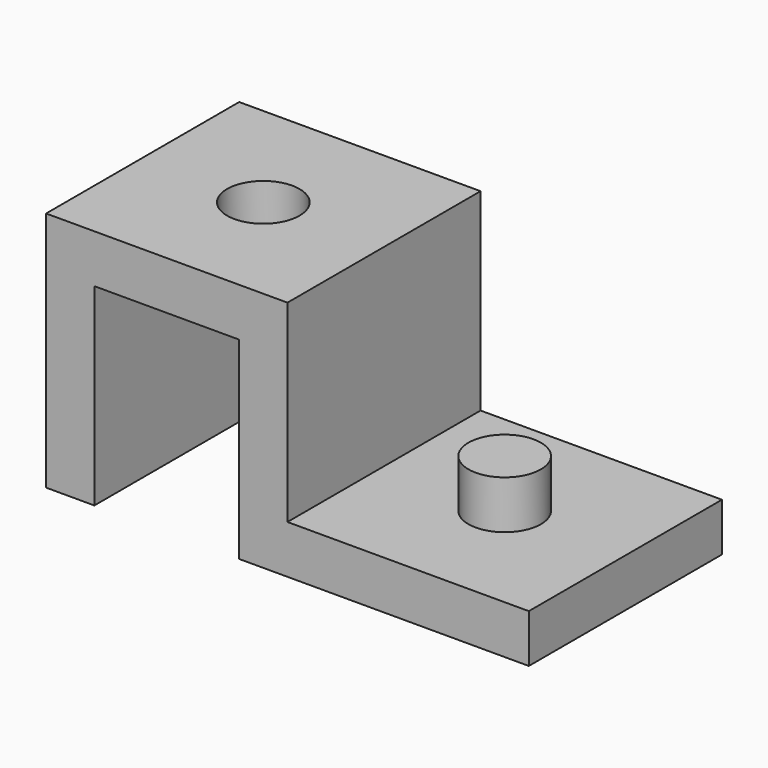
from build123d import *

# Parameters (mm, degrees)
F1_DEPTH = 25
F2_R     = 7.5
F3_DEPTH = 25
F4_R     = 7.5
F5_DEPTH = 10


with BuildPart() as f1:
    # F0 (on Front) → F1 (new body, symmetric)
    with BuildSketch(Plane.XZ):
        Polygon((0, 0), (10, 0), (10, 40), (40, 40), (40, 0), (100, 0), (100, 10), (50, 10), (50, 50), (0, 50), align=None)
    extrude(amount=F1_DEPTH, both=True)

    # F2 (on face) → F3 (cut)
    with BuildSketch(Plane.XY.offset(50)):
        with Locations((25, 0)):
            Circle(F2_R)
    extrude(amount=-F3_DEPTH, mode=Mode.SUBTRACT)

    # F4 (on face) → F5 (join)
    with BuildSketch(Plane.XY.offset(10)):
        with Locations((75, 0)):
            Circle(F4_R)
    extrude(amount=F5_DEPTH)


solid = f1.part
